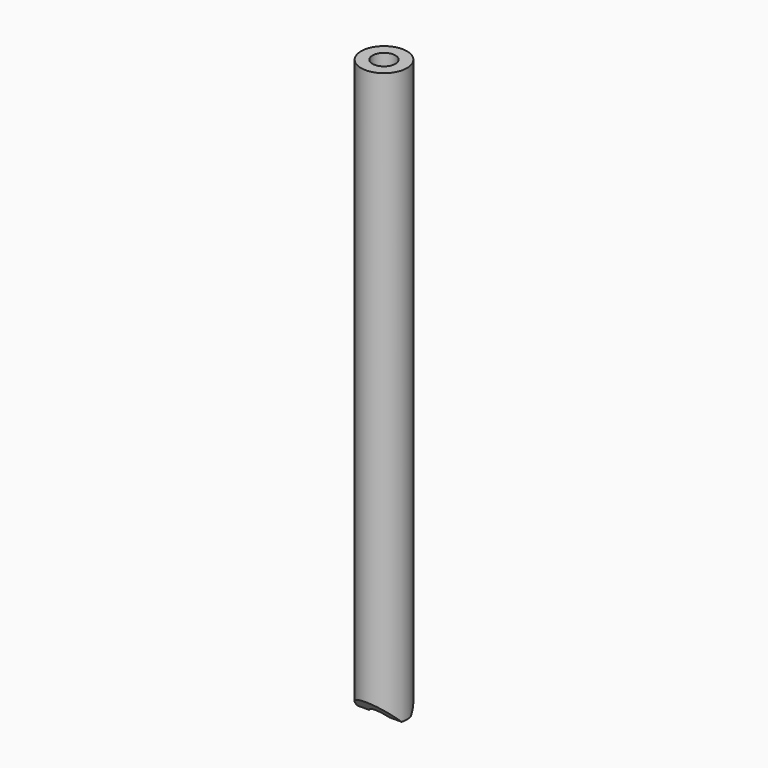
from build123d import *

# Parameters (mm, degrees)
SKETCH089_R          = 2
SKETCH089_R_2        = 1
PAD030_DEPTH         = 50
POCKET025_DEPTH      = 2.001
POCKET025_DEPTH_BACK = -2.001


with BuildPart() as part:
    # Sketch089 → Pad030 (new body)
    with BuildSketch(Plane.XY):
        Circle(SKETCH089_R)
        Circle(SKETCH089_R_2, mode=Mode.SUBTRACT)
    extrude(amount=PAD030_DEPTH)

    # Sketch090 → Pocket025 (cut, two sides)
    with BuildSketch(Plane.YZ) as pocket025_sk:
        Polygon((0, -0.5), (4, 3.5), (4, -3.5), (-4, -3.5), (-4, 3.5), align=None)
    extrude(amount=-POCKET025_DEPTH, mode=Mode.SUBTRACT)
    extrude(pocket025_sk.sketch, amount=-POCKET025_DEPTH_BACK, mode=Mode.SUBTRACT)


solid = part.part
